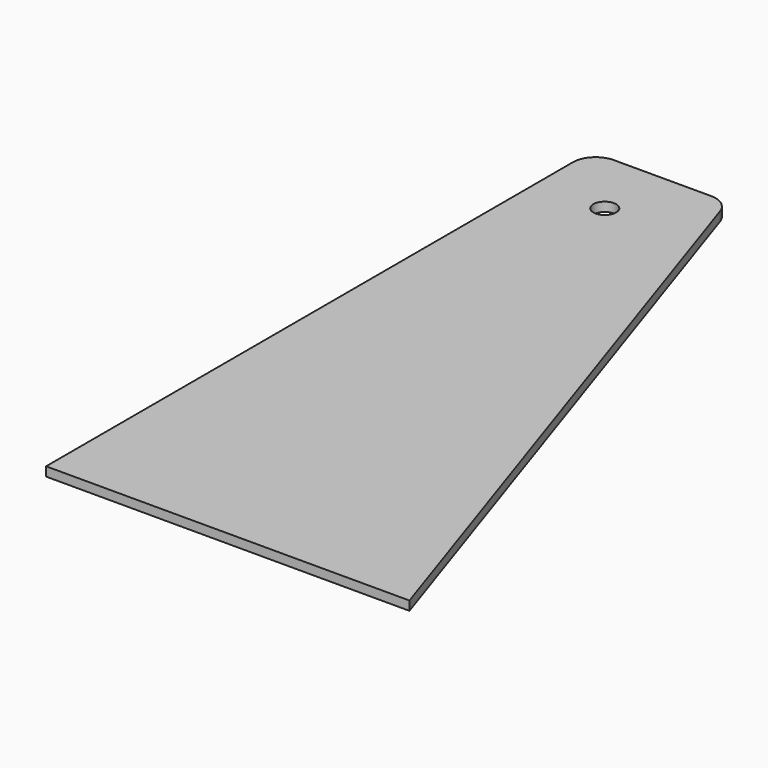
from build123d import *

# Parameters (mm, degrees)
F0_R     = 2.5
F1_DEPTH = 2
F2_R     = 5


with BuildPart() as f1:
    # F0 (on Top) → F1 (new body)
    with BuildSketch(Plane.XY):
        Polygon((0, 150), (0, 0), (80, 0), (30, 150), align=None)
        with Locations((15, 135)):
            Circle(F0_R, mode=Mode.SUBTRACT)
    extrude(amount=F1_DEPTH)

    # F2
    f2_edges = [f1.edges().sort_by_distance(p)[0] for p in [
        (0, 150, 1),
        (30, 150, 1),
    ]]
    fillet(f2_edges, radius=F2_R)


solid = f1.part
